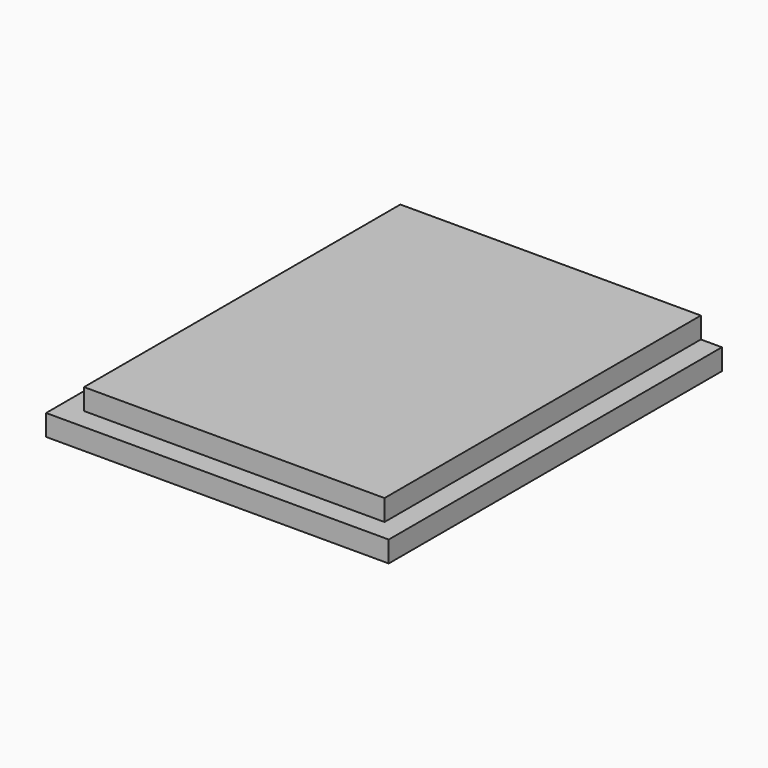
from build123d import *

# Parameters (mm, degrees)
F1_DEPTH = 22.86
F3_DEPTH = 1.2192


with BuildPart() as f1:
    # F0 (on Front) → F1 (new body)
    with BuildSketch(Plane.XZ):
        Polygon((0, 1.2192), (0, 0), (19.812, 0), (19.812, 1.2192), (18.5928, 1.2192), (18.5928, 2.4384), (1.2192, 2.4384), (1.2192, 1.2192), align=None)
    extrude(amount=F1_DEPTH)

    # F2 (on face) → F3 (join)
    with BuildSketch(Plane.XZ.offset(22.86)):
        Polygon((0, 1.2192), (0, 0), (19.812, 0), (19.812, 1.2192), (18.5928, 1.2192), (1.2192, 1.2192), align=None)
    extrude(amount=F3_DEPTH)


solid = f1.part
